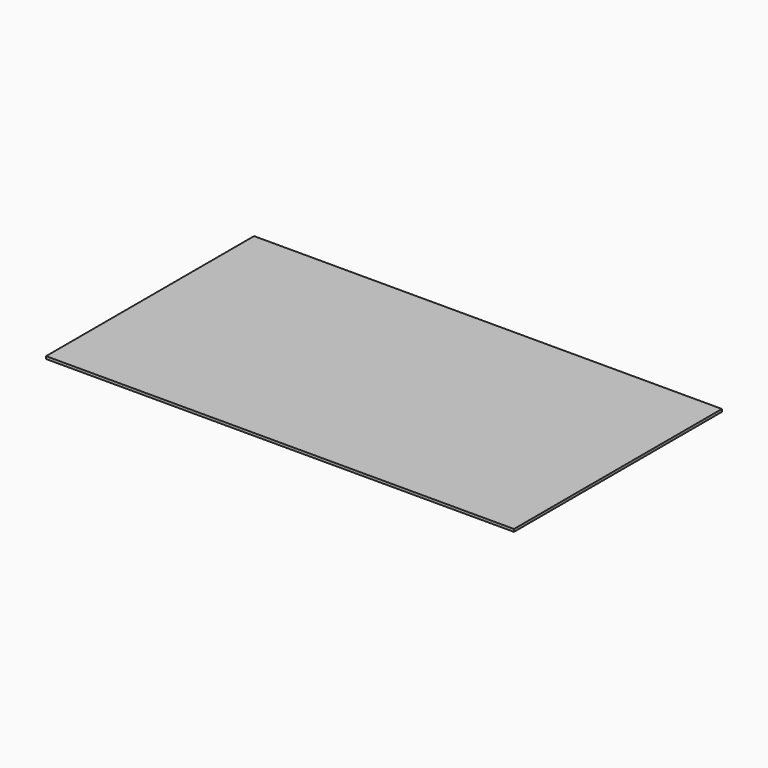
from build123d import *

# Parameters (mm, degrees)
F0_W          = 1800
F0_H          = 1000
F1_DEPTH      = 10
F1_DEPTH_BACK = 20
F1_TAPER_BACK = 60
F3_D          = 7
F3_DEPTH      = 20
F3_TIP        = 2.1030121666


with BuildPart() as f1:
    # F0 (on Top) → F1 (new body, two sides)
    with BuildSketch(Plane.XY) as f1_sk:
        Rectangle(F0_W, F0_H)
    extrude(amount=F1_DEPTH)
    extrude(f1_sk.sketch, amount=-F1_DEPTH_BACK, taper=F1_TAPER_BACK)

    # F3
    with Locations(Plane(origin=(0, 0, -20), x_dir=(1, 0, 0), z_dir=(0, 0, -1))):
        with Locations((800, -345), (800, -115), (800, 115), (800, 345), (750, 400), (450, 400), (150, 400), (-150, 400), (-450, 400), (-750, 400), (450, -400), (150, -400), (-150, -400), (-150, -400), (-800, -345), (-800, -115), (-800, 115), (-450, -400), (-750, -400), (750, -400), (-800, 345), (-265, 345), (-265, 115), (-265, -115), (-265, -345), (265, -345), (265, -345), (265, -115), (265, 345), (265, 115)):
            Hole(F3_D / 2, depth=F3_DEPTH)
            with Locations((0, 0, -(F3_DEPTH + F3_TIP / 2))):  # 118° drill point
                Cone(0, F3_D / 2, F3_TIP, mode=Mode.SUBTRACT)


solid = f1.part
